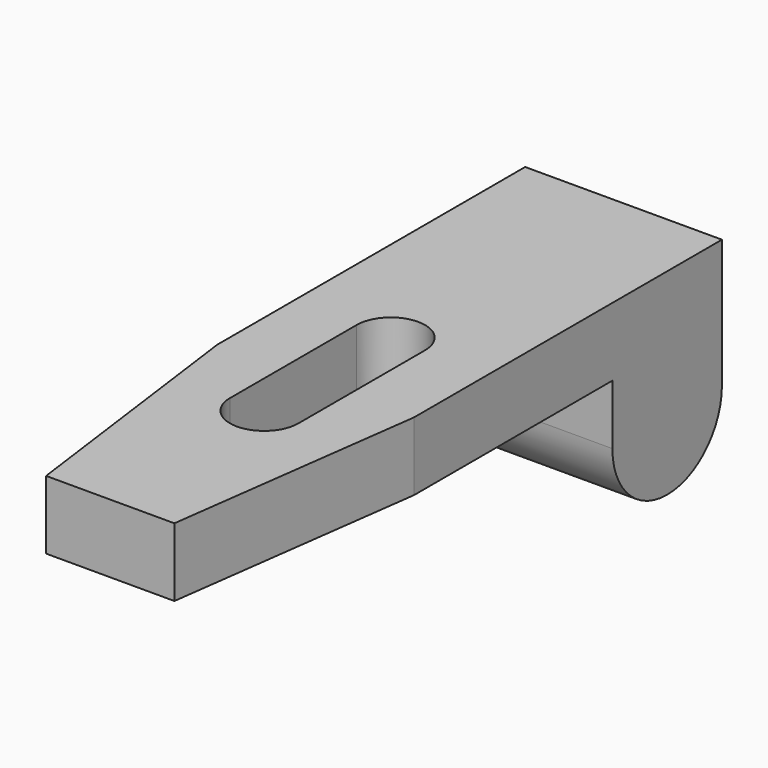
from build123d import *

# Parameters (mm, degrees)
F1_DEPTH      = 16
F3_DEPTH      = 23
F3_DEPTH_BACK = 23


with BuildPart() as f1:
    # F0 (on Top) → F1 (new body)
    with BuildSketch(Plane.XY):
        Polygon((-23, 68), (-23, 0), (-23, -22), (-15, -82), (0, -82), (15, -82), (23, -22), (23, 0), (23, 68), align=None)
        with BuildLine():
            Line((-8, -37), (-8, 0))
            ThreePointArc((-8, 0), (0, 8), (8, 0))
            Line((8, 0), (8, -37))
            ThreePointArc((8, -37), (0, -45), (-8, -37))
        make_face(mode=Mode.SUBTRACT)
    extrude(amount=F1_DEPTH)

    # F2 (on Right) → F3 (join, two sides)
    with BuildSketch(Plane.YZ) as f3_sk:
        with BuildLine():
            Line((44.254033, 0), (36, 0))
            Line((36, 0), (36, -14))
            ThreePointArc((36, -14), (52, -30), (68, -14))
            Line((68, -14), (68, 0))
            Line((68, 0), (59.745967, 0))
            Line((59.745967, 0), (44.254033, 0))
        make_face()
    extrude(amount=F3_DEPTH)
    extrude(f3_sk.sketch, amount=-F3_DEPTH_BACK)


solid = f1.part
